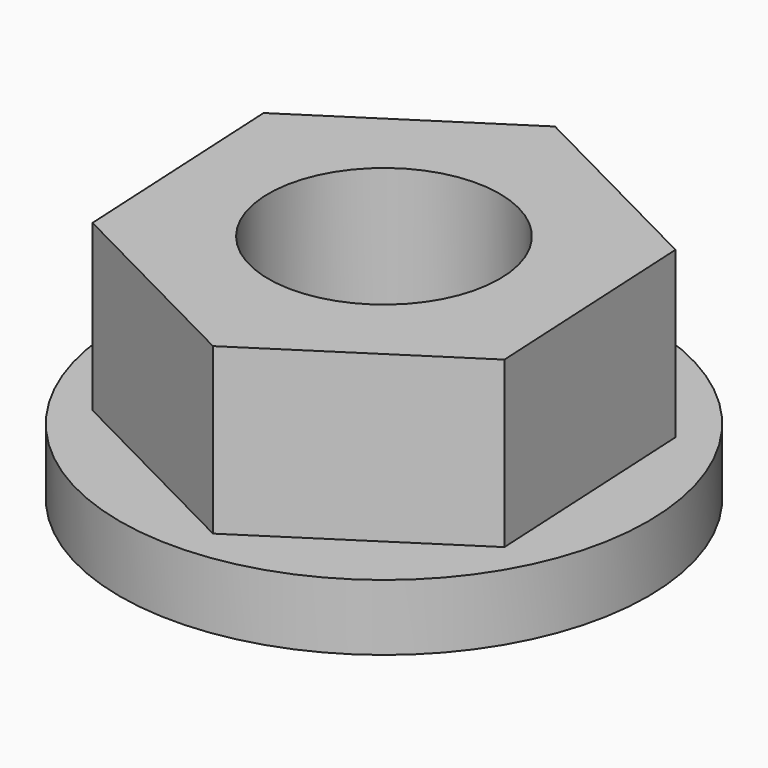
from build123d import *

# Parameters (mm, degrees)
F0_R     = 8
F1_DEPTH = 2
F3_DEPTH = 5
F4_R     = 3.5
F5_DEPTH = 25


with BuildPart() as f1:
    # F0 (on Top) → F1 (new body)
    with BuildSketch(Plane.XY):
        Circle(F0_R)
        Circle(F0_R)
    extrude(amount=F1_DEPTH)

    # F2 (on face) → F3 (join)
    with BuildSketch(Plane.XY.offset(2)):
        Polygon((5.814557, 3.767084), (-0.355112, 6.919096), (-6.169669, 3.152012), (-5.814557, -3.767084), (0.355112, -6.919096), (6.169669, -3.152012), align=None)
    extrude(amount=F3_DEPTH)

    # F4 (on face) → F5 (cut)
    with BuildSketch(Plane.XY.offset(7)):
        Circle(F4_R)
    extrude(amount=-F5_DEPTH, mode=Mode.SUBTRACT)


solid = f1.part
